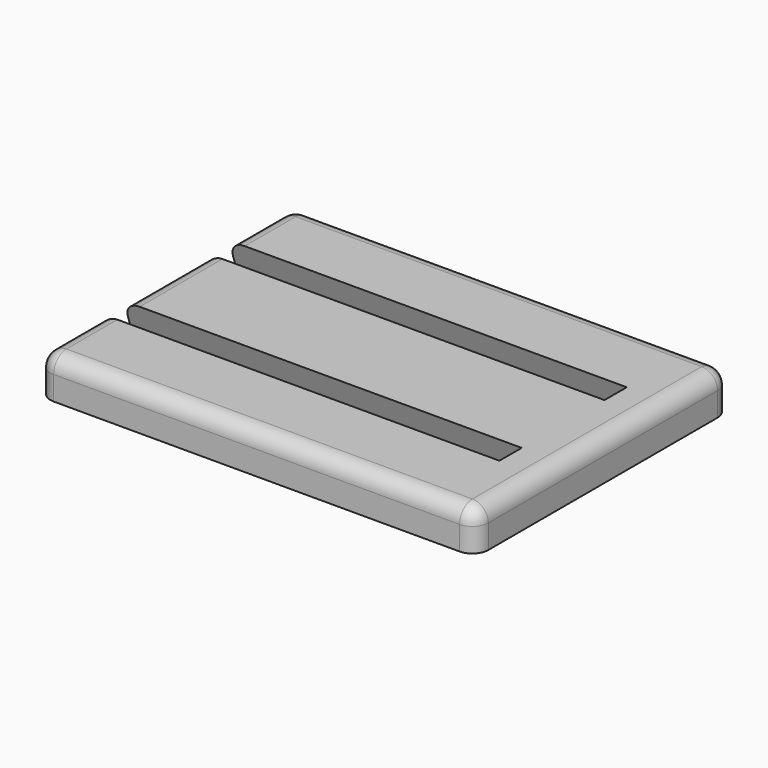
from build123d import *

# Parameters (mm, degrees)
F0_W     = 110
F0_H     = 80
F1_DEPTH = 10
F3_DEPTH = 100
F4_R     = 4


with BuildPart() as f1:
    # F0 (on Top) → F1 (new body)
    with BuildSketch(Plane.XY):
        with Locations((55, 40)):
            Rectangle(F0_W, F0_H)
    extrude(amount=F1_DEPTH)

    # F2 (on face) → F3 (cut)
    with BuildSketch(Plane(origin=(0, 0, 0), x_dir=(0, -1, 0), z_dir=(-1, 0, 0))):
        Polygon((-53, 10), (-60, 10), (-62.5, 2.4006579232), (-50.5, 2.4006579232), align=None)
        Polygon((-20, 10), (-27, 10), (-29.5, 2.4006579232), (-17.5, 2.4006579232), align=None)
    extrude(amount=-F3_DEPTH, mode=Mode.SUBTRACT)

    # F4
    f4_edges = [f1.edges().sort_by_distance(p)[0] for p in [
        (0, 0, 5),
        (110, 0, 5),
        (110, 80, 5),
        (0, 80, 5),
        (55, 80, 10),
        (110, 40, 10),
        (55, 0, 10),
        (0, 10, 10),
        (0, 40, 10),
        (0, 70, 10),
    ]]
    fillet(f4_edges, radius=F4_R)


solid = f1.part
